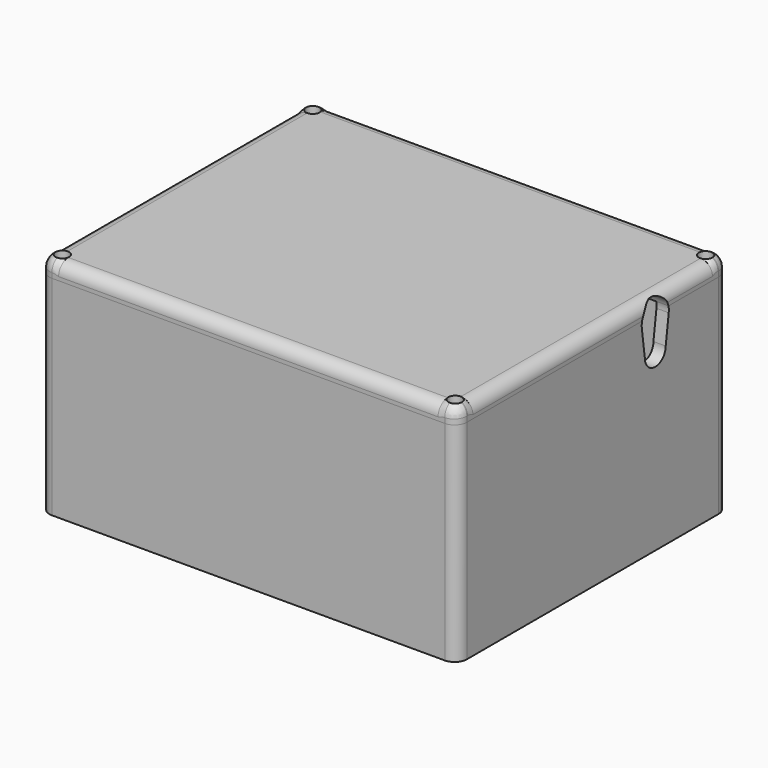
from build123d import *

# Parameters (mm, degrees)
SKETCH001_W     = 80
SKETCH001_H     = 65
PAD_DEPTH       = 40
SKETCH002_W     = 75.3
SKETCH002_H     = 60
POCKET_DEPTH    = 38
SKETCH003_R     = 4
SKETCH003_R_2   = 1.75
PAD001_DEPTH    = 5
SKETCH004_W     = 75.3
SKETCH004_H     = 5
PAD002_DEPTH    = 6.6
CHAMFER_SIZE    = 1.6
SKETCH005_R     = 2.35
PAD003_DEPTH    = 31.4
SKETCH006_R     = 1.75
POCKET001_DEPTH = 6
FILLET_R        = 2.35
POCKET002_DEPTH = 5
SKETCH009_W     = 80
SKETCH009_H     = 65
SKETCH009_R     = 1.3
PAD004_DEPTH    = 3
FILLET001_R     = 2.35
FILLET002_R     = 2.3
SKETCH010_R     = 3.25
POCKET003_DEPTH = 10
CHAMFER001_SIZE = 2.35


with BuildPart() as box001:
    # Sketch001 → Pad (new body)
    with BuildSketch(Plane.XY):
        Rectangle(SKETCH001_W, SKETCH001_H)
    extrude(amount=PAD_DEPTH)

    # Sketch002 (on Face6 of Pad) → Pocket (cut)
    with BuildSketch(Plane.XY.offset(40)):
        Rectangle(SKETCH002_W, SKETCH002_H)
    extrude(amount=-POCKET_DEPTH, mode=Mode.SUBTRACT)

    # Sketch003 (on Face11 of Pocket) → Pad001 (join)
    with BuildSketch(Plane.XY.offset(2)):
        with Locations((-35, 22.5)):
            Circle(SKETCH003_R)
        with Locations((-35, 22.5)):
            Circle(SKETCH003_R_2, mode=Mode.SUBTRACT)
        with Locations((-35, -22.5)):
            Circle(SKETCH003_R)
        with Locations((-35, -22.5)):
            Circle(SKETCH003_R_2, mode=Mode.SUBTRACT)
        with Locations((35, -22.5)):
            Circle(SKETCH003_R)
        with Locations((35, -22.5)):
            Circle(SKETCH003_R_2, mode=Mode.SUBTRACT)
    extrude(amount=PAD001_DEPTH)

    # Sketch004 (on Face11 of Pad001) → Pad002 (join)
    with BuildSketch(Plane.XY.offset(2)):
        with Locations((0, 27.5)):
            Rectangle(SKETCH004_W, SKETCH004_H)
        with Locations((0, -27.5)):
            Rectangle(SKETCH004_W, SKETCH004_H)
    extrude(amount=PAD002_DEPTH)

    # Chamfer
    chamfer_edges = [box001.edges().sort_by_distance(p)[0] for p in [
        (0, -25, 8.6),
        (0, 25, 8.6),
    ]]
    chamfer(chamfer_edges, length=CHAMFER_SIZE)

    # Sketch005 (on Face6 of Chamfer) → Pad003 (join)
    with BuildSketch(Plane.XY.offset(40)):
        with Locations((-37.65, -30)):
            Circle(SKETCH005_R)
        with Locations((37.65, -30)):
            Circle(SKETCH005_R)
        with Locations((37.65, 30)):
            Circle(SKETCH005_R)
        with Locations((-37.65, 30)):
            Circle(SKETCH005_R)
    extrude(amount=-PAD003_DEPTH)

    # Sketch006 (on Face6 of Pad003) → Pocket001 (cut)
    with BuildSketch(Plane.XY.offset(40)):
        with Locations((-37.65, 30)):
            Circle(SKETCH006_R)
        with Locations((-37.65, -30)):
            Circle(SKETCH006_R)
        with Locations((37.65, -30)):
            Circle(SKETCH006_R)
        with Locations((37.65, 30)):
            Circle(SKETCH006_R)
    extrude(amount=-POCKET001_DEPTH, mode=Mode.SUBTRACT)

    # Fillet
    fillet_edges = [box001.edges().sort_by_distance(p)[0] for p in [
        (-40, 32.5, 20),
        (-40, -32.5, 20),
        (40, -32.5, 20),
        (40, 32.5, 20),
    ]]
    fillet(fillet_edges, radius=FILLET_R)

    # Sketch007 (on Face10 of Fillet) → Pocket002 (cut)
    with BuildSketch(Plane.YZ.offset(40)):
        with BuildLine():
            ThreePointArc((12.5, 33.5), (15, 31), (17.5, 33.5))
            Line((18.220523, 38.813271), (17.5, 33.5))
            ThreePointArc((18.220523, 38.813271), (15, 42.5), (11.779477, 38.813271))
            Line((11.779477, 38.813271), (12.5, 33.5))
        make_face()
    extrude(amount=-POCKET002_DEPTH, mode=Mode.SUBTRACT)


with BuildPart() as cover:
    # Sketch009 (on Face1 of ReferencePocket002) → Pad004 (new body)
    with BuildSketch(Plane.XY.offset(40)):
        Rectangle(SKETCH009_W, SKETCH009_H)
        with Locations((-37.65, -30)):
            Circle(SKETCH009_R, mode=Mode.SUBTRACT)
        with Locations((-37.65, 30)):
            Circle(SKETCH009_R, mode=Mode.SUBTRACT)
        with Locations((37.65, 30)):
            Circle(SKETCH009_R, mode=Mode.SUBTRACT)
        with Locations((37.65, -30)):
            Circle(SKETCH009_R, mode=Mode.SUBTRACT)
    extrude(amount=PAD004_DEPTH)

    # Fillet001
    fillet001_edges = [cover.edges().sort_by_distance(p)[0] for p in [
        (40, -32.5, 41.5),
        (40, 32.5, 41.5),
        (-40, 32.5, 41.5),
        (-40, -32.5, 41.5),
    ]]
    fillet(fillet001_edges, radius=FILLET001_R)

    # Fillet002
    fillet002_edges = [cover.edges().sort_by_distance(p)[0] for p in [
        (40, 0, 43),
        (39.311701, -31.811701, 43),
        (0, -32.5, 43),
        (-39.311701, -31.811701, 43),
        (-40, 0, 43),
        (-39.311701, 31.811701, 43),
        (0, 32.5, 43),
        (39.311701, 31.811701, 43),
    ]]
    fillet(fillet002_edges, radius=FILLET002_R)

    # Sketch010 (on Face14 of Fillet002) → Pocket003 (cut)
    with BuildSketch(Plane.YZ.offset(40)):
        with Locations((15, 39.25)):
            Circle(SKETCH010_R)
    extrude(amount=-POCKET003_DEPTH, mode=Mode.SUBTRACT)

    # Chamfer001
    chamfer001_edges = [cover.edges().sort_by_distance(p)[0] for p in [
        (30, 15, 40),
    ]]
    chamfer(chamfer001_edges, length=CHAMFER001_SIZE)


solid = Compound([box001.part, cover.part])
